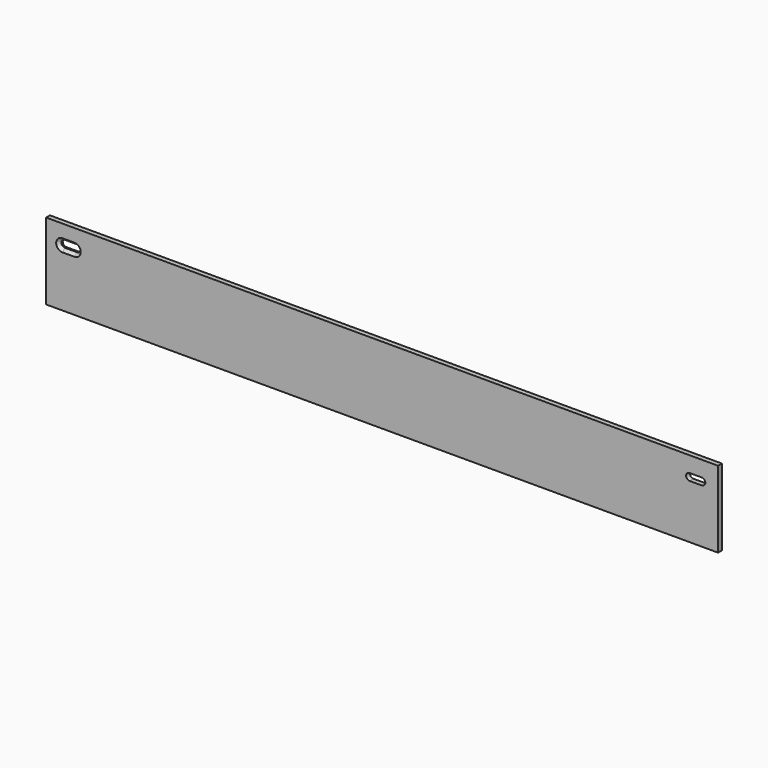
from build123d import *

# Parameters (mm, degrees)
F0_W     = 892.090368
F0_H     = 101.6
F1_DEPTH = 6.35
F2_SIZE2 = 3.621101
F2_SIZE  = 4.1656


with BuildPart() as f1:
    # F0 (on Front) → F1 (new body)
    with BuildSketch(Plane.XZ):
        Rectangle(F0_W, F0_H)
        with BuildLine():
            ThreePointArc((-408.283816, 30.0355), (-403.648316, 25.4), (-408.283816, 20.7645))
            Line((-408.283816, 20.7645), (-424.3705, 20.7645))
            ThreePointArc((-424.3705, 20.7645), (-429.006, 25.4), (-424.3705, 30.0355))
            Line((-424.3705, 30.0355), (-408.283816, 30.0355))
        make_face(mode=Mode.SUBTRACT)
        with BuildLine():
            ThreePointArc((424.412816, 30.0355), (429.048316, 25.4), (424.412816, 20.7645))
            Line((424.412816, 20.7645), (408.2415, 20.7645))
            ThreePointArc((408.2415, 20.7645), (403.606, 25.4), (408.2415, 30.0355))
            Line((408.2415, 30.0355), (424.412816, 30.0355))
        make_face(mode=Mode.SUBTRACT)
    extrude(amount=F1_DEPTH)

    # F2
    f2_edges = [f1.edges().sort_by_distance(p)[0] for p in [
        (-416.327158, -6.35, 30.0355),
    ]]
    chamfer(f2_edges, length=F2_SIZE, length2=F2_SIZE2)


solid = f1.part
